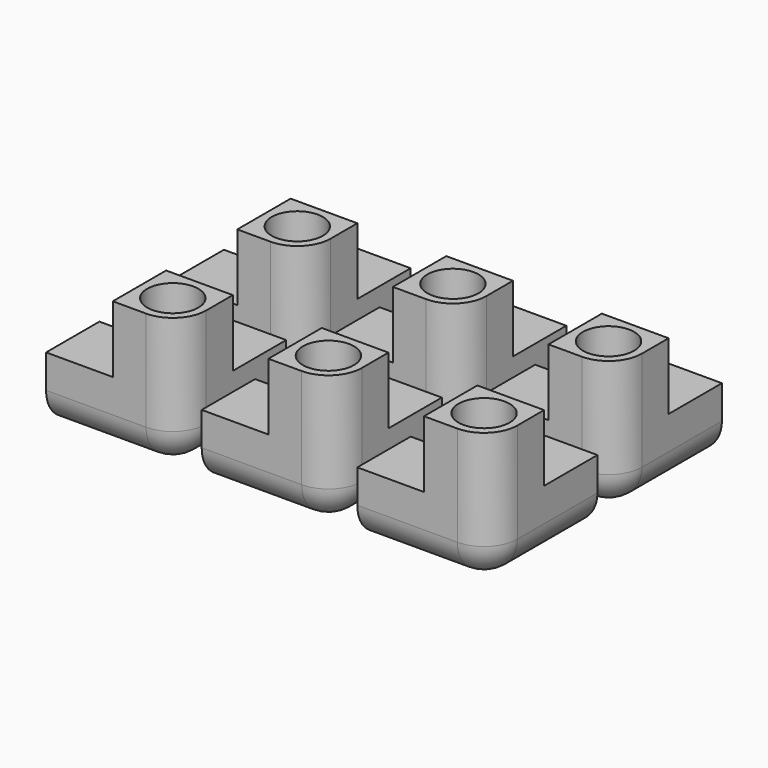
from build123d import *

# Parameters (mm, degrees)
F0_W     = 30
F0_H     = 30
F1_DEPTH = 30
F2_DEPTH = 60
F4_R     = 11.5
F6_DEPTH = 30
F5_R     = 11.5
F7_DEPTH = 30
F3_R     = 11.5
F8_DEPTH = 30
F9_R     = 15


with BuildPart() as f1:
    # F0 (on Top) → F1 (new body)
    with BuildSketch(Plane.XY):
        with Locations((-15, -15)):
            Rectangle(F0_W, F0_H)
    extrude(amount=F1_DEPTH)



with BuildPart() as f1b:
    # F0 (on Top) → F1, piece 2 (new body)
    with BuildSketch(Plane.XY):
        with Locations((15, 15)):
            Rectangle(F0_W, F0_H)
    extrude(amount=F1_DEPTH)


with BuildPart() as f1_1:
    add(f1.part)

    add(f1b.part)  # F2 merges F1b
    # F0 (on Top) → F2 (join)
    with BuildSketch(Plane.XY):
        with Locations((15, -15)):
            Rectangle(F0_W, F0_H)
    extrude(amount=F2_DEPTH)

    # F4 (on face) → F6 (cut)
    with BuildSketch(Plane(origin=(0, 30, 0), x_dir=(-1, 0, 0), z_dir=(0, 1, 0))):
        with Locations((-15, 15)):
            Circle(F4_R)
    extrude(amount=-F6_DEPTH, mode=Mode.SUBTRACT)

    # F5 (on face) → F7 (cut)
    with BuildSketch(Plane(origin=(-30, 0, 0), x_dir=(0, -1, 0), z_dir=(-1, 0, 0))):
        with Locations((15, 15)):
            Circle(F5_R)
    extrude(amount=-F7_DEPTH, mode=Mode.SUBTRACT)

    # F3 (on face) → F8 (cut)
    with BuildSketch(Plane.XY.offset(60)):
        with Locations((15, -15)):
            Circle(F3_R)
    extrude(amount=-F8_DEPTH, mode=Mode.SUBTRACT)

    # F9
    f9_edges = [f1_1.edges().sort_by_distance(p)[0] for p in [
        (0, -30, 0),
        (30, 0, 0),
        (30, -30, 30),
    ]]
    fillet(f9_edges, radius=F9_R)


with BuildPart() as f10_1:
    # F10: copy of F1
    add(f1_1.part.moved(Location((0, 70, 0))))


with BuildPart() as f11_1:
    # F11: copy of F1
    add(f1_1.part.moved(Location((70, 0, 0))))


with BuildPart() as f12_1:
    # F12: copy of F1
    add(f1_1.part.moved(Location((70, 70, 0))))


with BuildPart() as f13_1:
    # F13: copy of F1
    add(f1_1.part.moved(Location((-70, 0, 0))))


with BuildPart() as f14_1:
    # F14: copy of F1
    add(f1_1.part.moved(Location((-70, 70, 0))))


solid = Compound([f1_1.part, f10_1.part, f11_1.part, f12_1.part, f13_1.part, f14_1.part])
